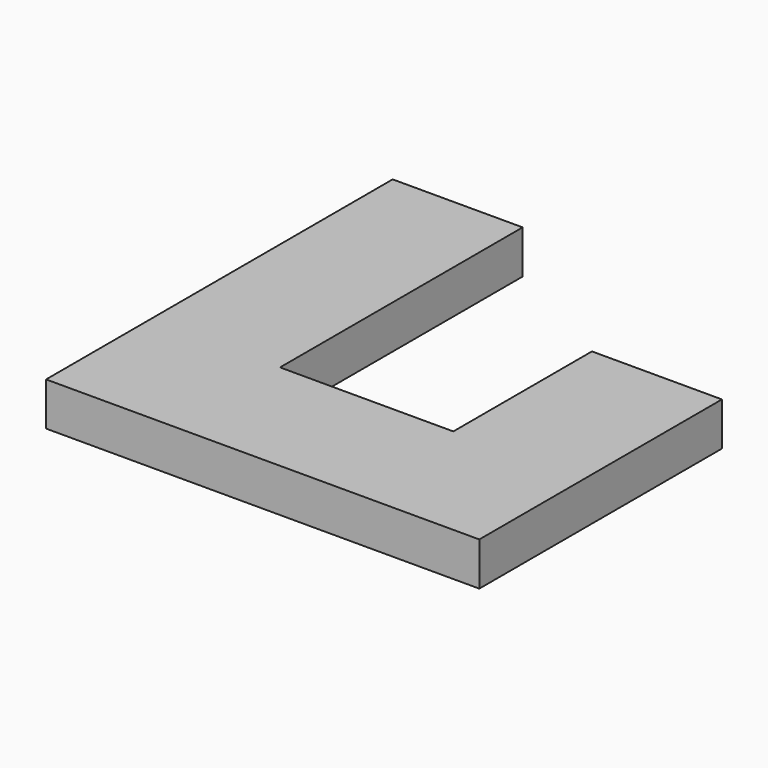
from build123d import *

# Parameters (mm, degrees)
F0_W     = 30
F0_H     = 70
F1_DEPTH = 10


with BuildPart() as f1:
    # F0 (on Top) → F1 (new body)
    with BuildSketch(Plane.XY):
        with Locations((-44.717119, 19.02606)):
            Rectangle(F0_W, F0_H)
        Polygon((10.282881, -42.011672), (10.282881, -15.97394), (-29.717119, -15.97394), (-59.717119, -15.97394), (-59.717119, -45.97394), (10.282881, -45.97394), align=None)
        Polygon((40.282881, 24.02606), (10.282881, 24.02606), (10.282881, -15.97394), (10.282881, -42.011672), (10.282881, -45.97394), (40.282881, -45.97394), align=None)
    extrude(amount=F1_DEPTH)


solid = f1.part
